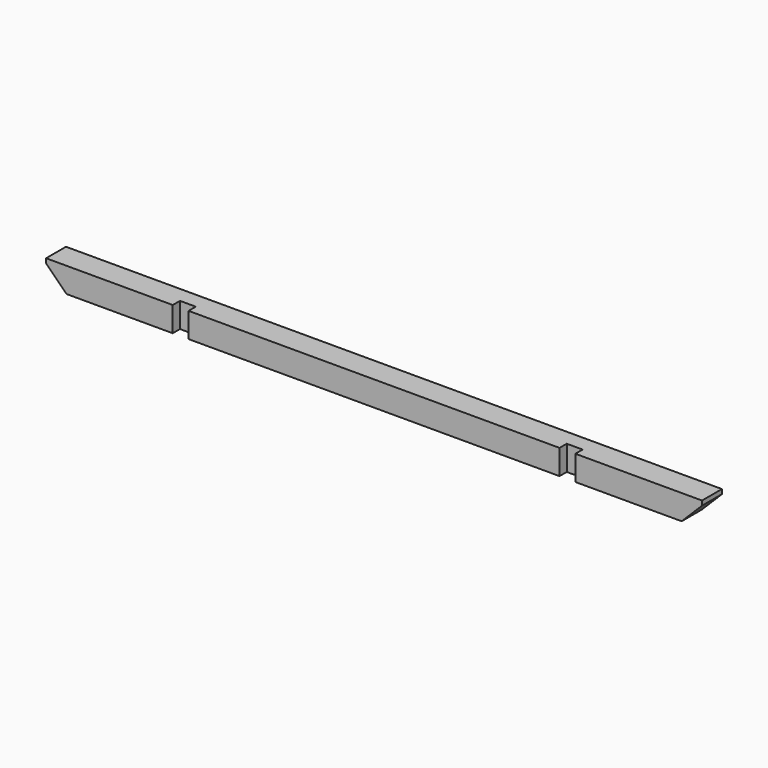
from build123d import *

# Parameters (mm, degrees)
F1_DEPTH = 139.7
F2_W     = 88.9
F2_H     = 139.7
F3_DEPTH = 50.8


with BuildPart() as f1:
    # F0 (on Front) → F1 (new body)
    with BuildSketch(Plane.XZ):
        Polygon((3683, 0), (0, 0), (0, -25.4), (114.3, -139.7), (3568.7, -139.7), (3683, -25.4), align=None)
    extrude(amount=F1_DEPTH)

    # F2 (on face) → F3 (cut)
    with BuildSketch(Plane.XZ.offset(139.7)):
        with Locations((755.65, -69.85)):
            Rectangle(F2_W, F2_H)
        with Locations((2927.35, -69.85)):
            Rectangle(F2_W, F2_H)
    extrude(amount=-F3_DEPTH, mode=Mode.SUBTRACT)


solid = f1.part
